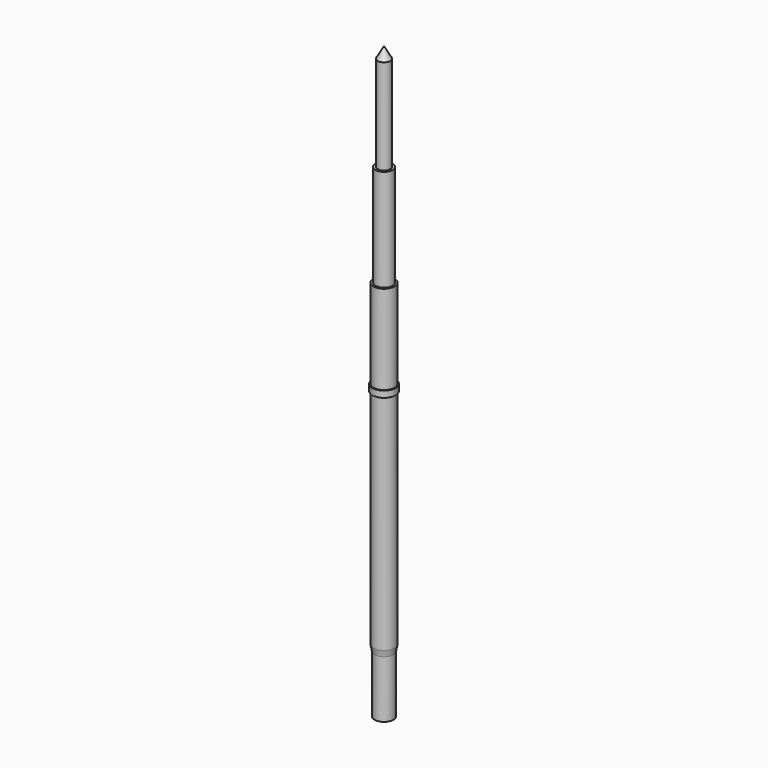
from build123d import *


with BuildPart() as f1:
    # F0 (on Front) → F1 (revolve)
    with BuildSketch(Plane.XZ):
        Polygon((0.835, 0), (0, 0), (0, -30.1), (0.32, -30.1), (0.32, -30), (0.735, -30), (0.735, -25.5), (0.835, -25), (0.835, -7.5), (0.915, -7.5), (0.915, -7), (0.835, -7), align=None)
    revolve(axis=Axis((0, 0, -15.05), (0, 0, 1)))


with BuildPart() as f3:
    # F2 (on Right) → F3 (revolve)
    with BuildSketch(Plane.YZ):
        Polygon((0, -25), (0, 0), (0, 16.35), (-0.5, 15.483975), (-0.5, 8), (-0.68, 8), (-0.68, -25), align=None)
    revolve(axis=Axis((0, 0, 8.175), (0, 0, -1)))


solid = Compound([f1.part, f3.part])
